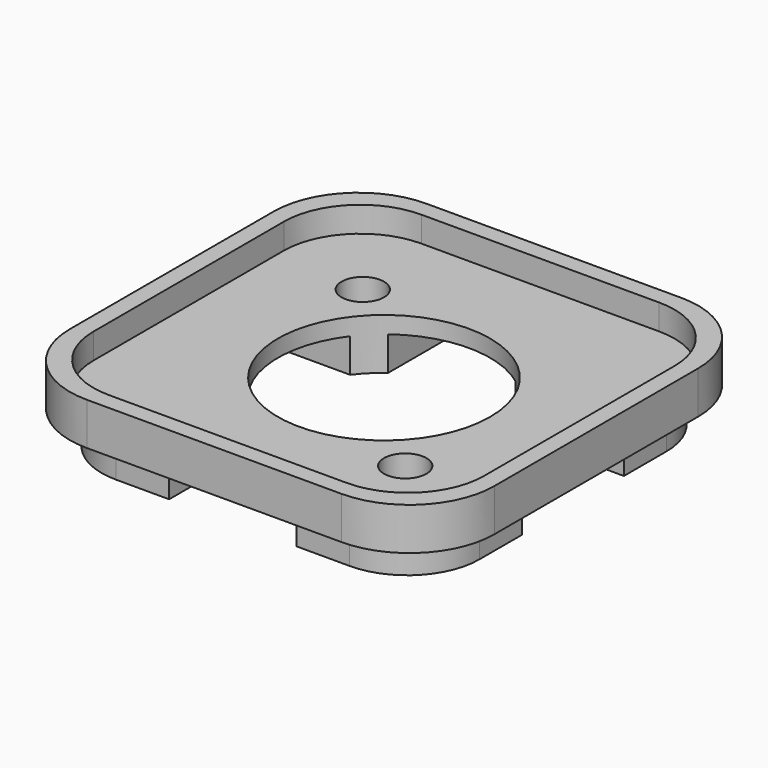
from build123d import *

# Parameters (mm, degrees)
BOX_W           = 30
BOX_H           = 100
BOX_DEPTH       = 10
BOX001_W        = 100
BOX001_H        = 30
BOX001_DEPTH    = 10
CYLINDER_R      = 25
CYLINDER_DEPTH  = 22
PAD_DEPTH       = 10
PAD001_DEPTH    = 18
POCKET_DEPTH    = 6
POCKET001_DEPTH = 3
COPYSKETCH005_R = 5
POCKET002_DEPTH = 18.001


with BuildPart() as cubo:
    # Box → Box (new body)
    with BuildSketch(Plane(origin=(-15, -50, -10), x_dir=(1, 0, 0), z_dir=(0, 0, 1))):
        with Locations((15, 50)):
            Rectangle(BOX_W, BOX_H)
    extrude(amount=BOX_DEPTH)


with BuildPart() as cubo001:
    # Box001 → Box001 (new body)
    with BuildSketch(Plane(origin=(-50, -15, -10), x_dir=(1, 0, 0), z_dir=(0, 0, 1))):
        with Locations((50, 15)):
            Rectangle(BOX001_W, BOX001_H)
    extrude(amount=BOX001_DEPTH)


with BuildPart() as fusion:
    # Cylinder → Cylinder (new body)
    with BuildSketch(Plane.XY.offset(-10)):
        Circle(CYLINDER_R)
    extrude(amount=CYLINDER_DEPTH)

    # Fusion: union Cubo, Cubo001
    add(cubo.part)
    add(cubo001.part)


with BuildPart() as cut:
    # Sketch → Pad (new body)
    with BuildSketch(Plane.XY):
        with BuildLine():
            Line((-30, 50), (30, 50))
            ThreePointArc((50, 30), (44.142136, 44.142136), (30, 50))
            Line((50, 30), (50, -30))
            ThreePointArc((30, -50), (44.142136, -44.142136), (50, -30))
            Line((30, -50), (-30, -50))
            ThreePointArc((-50, -30), (-44.142136, -44.142136), (-30, -50))
            Line((-50, -30), (-50, 30))
            ThreePointArc((-30, 50), (-44.142136, 44.142136), (-50, 30))
        make_face()
    extrude(amount=PAD_DEPTH)

    # Sketch001 (on Face10 of Pad) → Pad001 (join)
    with BuildSketch(Plane.XY.offset(10)):
        with BuildLine():
            Line((-27.5, 44.5), (27.5, 44.5))
            ThreePointArc((44.5, 27.5), (39.520815, 39.520815), (27.5, 44.5))
            Line((44.5, 27.5), (44.5, -27.5))
            ThreePointArc((27.5, -44.5), (39.520815, -39.520815), (44.5, -27.5))
            Line((27.5, -44.5), (-27.5, -44.5))
            ThreePointArc((-44.5, -27.5), (-39.520815, -39.520815), (-27.5, -44.5))
            Line((-44.5, -27.5), (-44.5, 27.5))
            ThreePointArc((-27.5, 44.5), (-39.520815, 39.520815), (-44.5, 27.5))
        make_face()
    extrude(amount=-PAD001_DEPTH)

    # CopySketch003 → Pocket (cut)
    with BuildSketch(Plane.XY.offset(10)):
        with BuildLine():
            Line((-28, 46), (28, 46))
            ThreePointArc((46, 28), (40.727922, 40.727922), (28, 46))
            Line((46, 28), (46, -28))
            ThreePointArc((28, -46), (40.727922, -40.727922), (46, -28))
            Line((28, -46), (-28, -46))
            ThreePointArc((-46, -28), (-40.727922, -40.727922), (-28, -46))
            Line((-46, -28), (-46, 28))
            ThreePointArc((-28, 46), (-40.727922, 40.727922), (-46, 28))
        make_face()
    extrude(amount=-POCKET_DEPTH, mode=Mode.SUBTRACT)

    # Sketch002 (on Face27 of Pocket) → Pocket001 (cut)
    with BuildSketch(Plane(origin=(0, 0, -8), x_dir=(1, 0, 0), z_dir=(0, 0, -1))):
        Polygon((-23.35, 22.142116), (-21.7, 25), (-23.35, 27.857884), (-26.65, 27.857884), (-28.3, 25), (-26.65, 22.142116), align=None)
        Polygon((28.3, -25), (26.65, -22.142116), (23.35, -22.142116), (21.7, -25), (23.35, -27.857884), (26.65, -27.857884), align=None)
    extrude(amount=-POCKET001_DEPTH, mode=Mode.SUBTRACT)

    # CopySketch005 → Pocket002 (cut, through all)
    with BuildSketch(Plane(origin=(0, 0, -8), x_dir=(1, 0, 0), z_dir=(0, 0, -1))):
        with Locations((25, 25)):
            Circle(COPYSKETCH005_R)
        with Locations((-25, -25)):
            Circle(COPYSKETCH005_R)
    extrude(amount=-POCKET002_DEPTH, mode=Mode.SUBTRACT)

    # Cut: cut Fusion
    add(fusion.part, mode=Mode.SUBTRACT)


solid = cut.part
